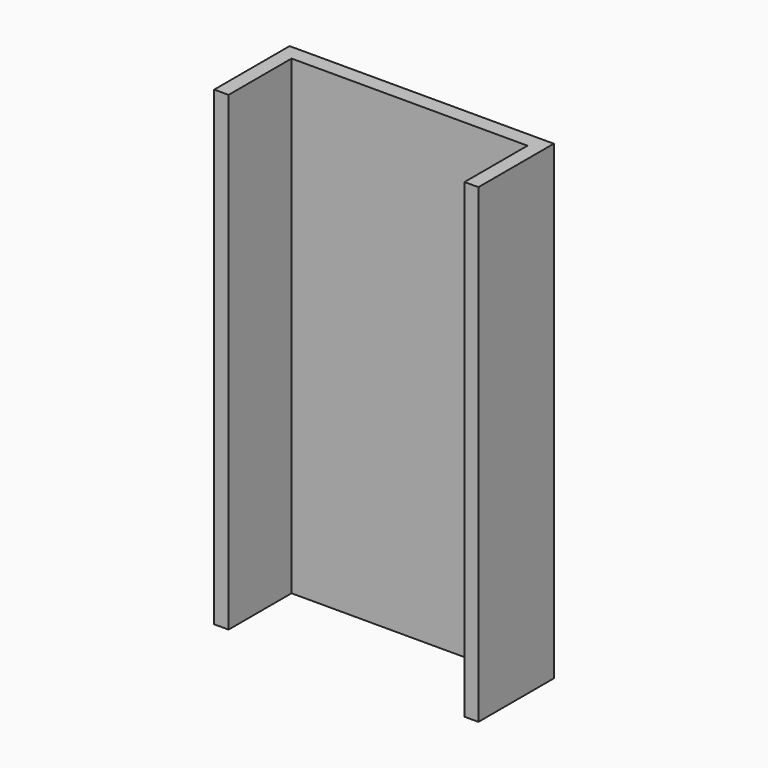
from build123d import *

# Parameters (mm, degrees)
F0_W     = 501.1803507805
F0_H     = 32.8778875992
F1_DEPTH = 1000


with BuildPart() as f1:
    # F0 (on Top) → F1 (new body)
    with BuildSketch(Plane.XY):
        Polygon((-352.7414500713, 0.8144499734), (-352.7414500713, 33.6923375726), (-383.2314908504, 33.6923375726), (-383.2314908504, -166.3986742496), (-352.7414500713, -166.3986742496), align=None)
        with Locations((-102.1512746811, 17.253393773)):
            Rectangle(F0_W, F0_H)
        Polygon((177.9761463404, 33.6923375726), (148.4389007092, 33.6923375726), (148.4389007092, 0.8144499734), (148.4389007092, -166.3986742496), (177.9761463404, -166.3986742496), align=None)
    extrude(amount=F1_DEPTH)


solid = f1.part
